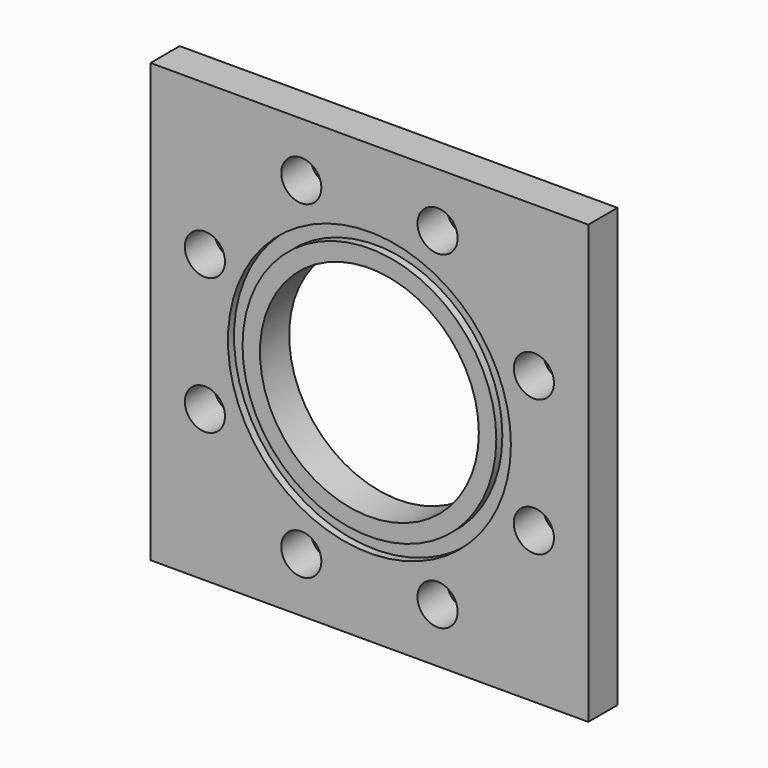
from build123d import *

# Parameters (mm, degrees)
F0_W     = 76.2
F0_H     = 76.2
F1_DEPTH = 3.175
F2_R     = 3.4925
F3_DEPTH = 25.4
F4_R     = 19.05
F5_DEPTH = 25.4
F6_R     = 24.6253
F6_R_2   = 22.0853
F7_DEPTH = 1.3208
F8_R     = 24.6253
F8_R_2   = 22.0853
F9_DEPTH = 0.6604


with BuildPart() as f1:
    # F0 (on Front) → F1 (new body, symmetric)
    with BuildSketch(Plane.XZ):
        Rectangle(F0_W, F0_H)
    extrude(amount=F1_DEPTH, both=True)

    # F2 (on face) → F3 (cut)
    with BuildSketch(Plane.XZ.offset(3.175)):
        with Locations((11.8585942021, 28.6291789535)):
            Circle(F2_R)
        with Locations((-11.8585942021, 28.6291789535)):
            Circle(F2_R)
        with Locations((-28.6291789535, 11.8585942021)):
            Circle(F2_R)
        with Locations((-28.6291789535, -11.8585942021)):
            Circle(F2_R)
        with Locations((-11.8585942021, -28.6291789535)):
            Circle(F2_R)
        with Locations((11.8585942021, -28.6291789535)):
            Circle(F2_R)
        with Locations((28.6291789535, -11.8585942021)):
            Circle(F2_R)
        with Locations((28.6291789535, 11.8585942021)):
            Circle(F2_R)
    extrude(amount=-F3_DEPTH, mode=Mode.SUBTRACT)

    # F4 (on face) → F5 (cut)
    with BuildSketch(Plane.XZ.offset(3.175)):
        Circle(F4_R)
    extrude(amount=-F5_DEPTH, mode=Mode.SUBTRACT)

    # F6 (on face) → F7 (cut)
    with BuildSketch(Plane.XZ.offset(3.175)):
        Circle(F6_R)
        Circle(F6_R_2, mode=Mode.SUBTRACT)
    extrude(amount=-F7_DEPTH, mode=Mode.SUBTRACT)

    # F8 (on face) → F9 (cut)
    with BuildSketch(Plane(origin=(0, 3.175, 0), x_dir=(-1, 0, 0), z_dir=(0, 1, 0))):
        Circle(F8_R)
        Circle(F8_R_2, mode=Mode.SUBTRACT)
    extrude(amount=-F9_DEPTH, mode=Mode.SUBTRACT)


solid = f1.part
